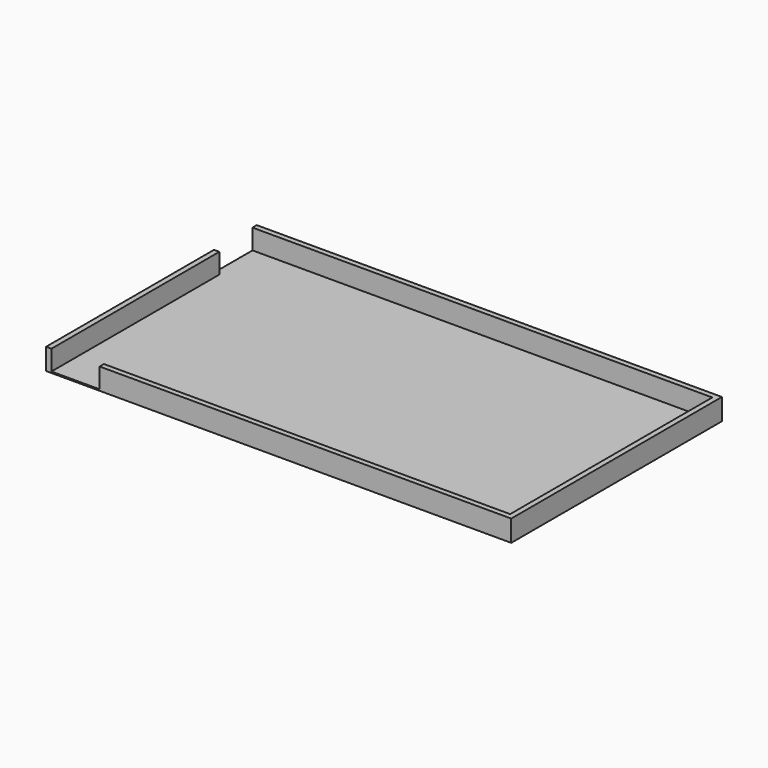
from build123d import *

# Parameters (mm, degrees)
F0_W     = 8490
F0_H     = 4720
F1_DEPTH = 25
F2_W     = 8690
F2_H     = 4920
F2_W_2   = 8490
F2_H_2   = 4720
F3_DEPTH = 400
F4_W     = 100
F4_H     = 900
F4_W_2   = 900
F4_H_2   = 100
F5_DEPTH = 375


with BuildPart() as f1:
    # F0 (on Top) → F1 (new body)
    with BuildSketch(Plane.XY):
        Rectangle(F0_W, F0_H)
    extrude(amount=F1_DEPTH)

    # F2 (on face) → F3 (join)
    with BuildSketch(Plane(origin=(0, 0, 0), x_dir=(1, 0, 0), z_dir=(0, 0, -1))):
        Rectangle(F2_W, F2_H)
        Rectangle(F2_W_2, F2_H_2, mode=Mode.SUBTRACT)
    extrude(amount=-F3_DEPTH)

    # F4 (on face) → F5 (cut, through all)
    with BuildSketch(Plane.XY.offset(400)):
        with Locations((-4295, 1910)):
            Rectangle(F4_W, F4_H)
        with Locations((-3795, -2410)):
            Rectangle(F4_W_2, F4_H_2)
    extrude(amount=-F5_DEPTH, mode=Mode.SUBTRACT)


solid = f1.part
